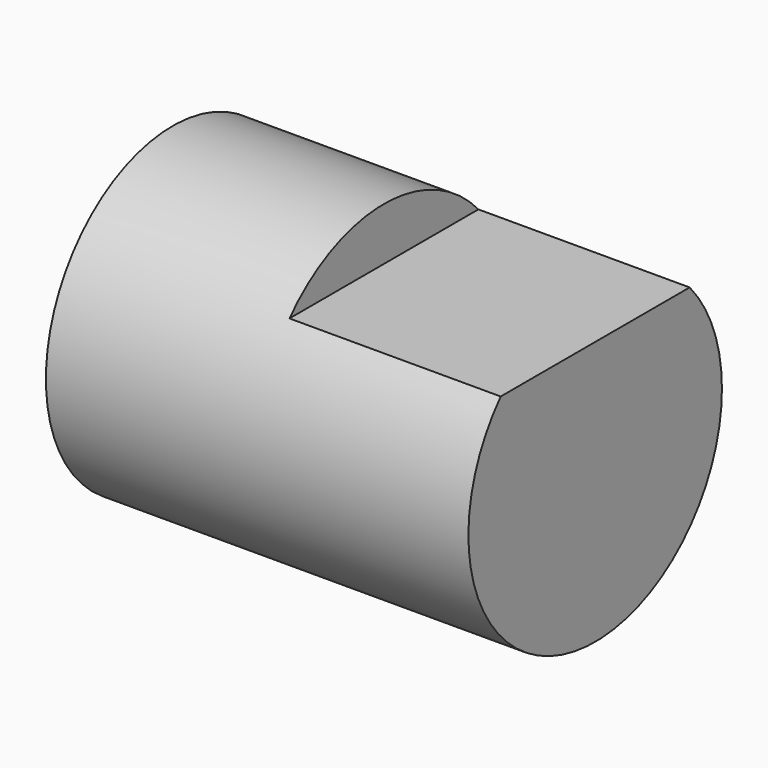
from build123d import *

# Parameters (mm, degrees)
F0_R     = 19.05
F1_DEPTH = 50.8
F4_DEPTH = 25.4


with BuildPart() as f1:
    # F0 (on Right) → F1 (new body)
    with BuildSketch(Plane.YZ):
        Circle(F0_R)
    extrude(amount=F1_DEPTH)

    # F3 (on offset) → F4 (cut)
    with BuildSketch(Plane.YZ.offset(25.4)):
        with BuildLine():
            ThreePointArc((14.199032, 12.7), (0, 19.05), (-14.199032, 12.7))
            Line((-14.199032, 12.7), (14.199032, 12.7))
        make_face()
    extrude(amount=F4_DEPTH, mode=Mode.SUBTRACT)


solid = f1.part
